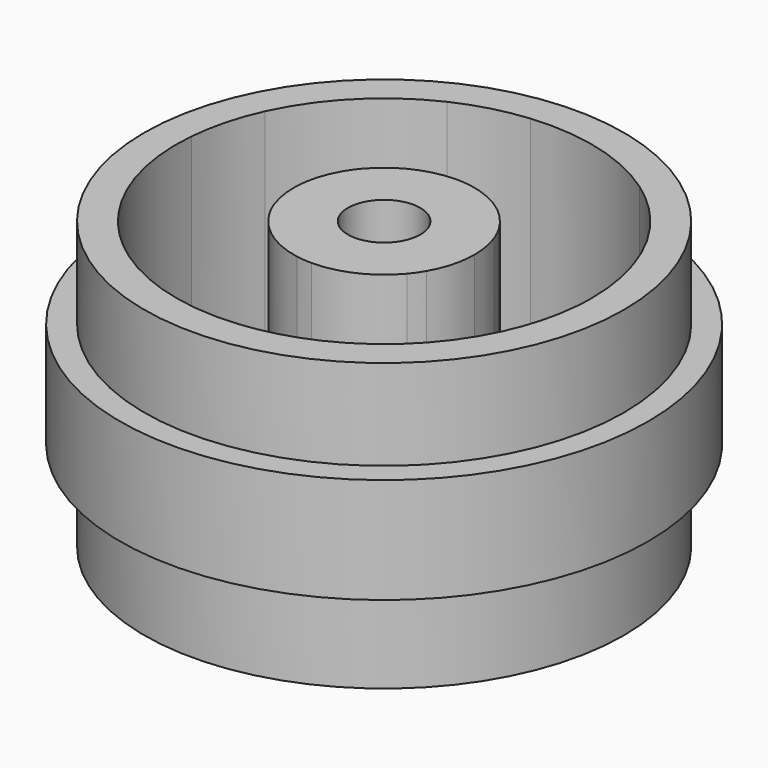
from build123d import *

# Parameters (mm, degrees)
F0_R     = 7.95
F1_DEPTH = 3
F2_R     = 8.75
F3_DEPTH = 3.5
F4_R     = 7.95
F5_DEPTH = 3
F7_DEPTH = 25
F6_R     = 1.2
F8_DEPTH = 7


with BuildPart() as f1:
    # F0 (on Top) → F1 (new body)
    with BuildSketch(Plane.XY):
        Circle(F0_R)
    extrude(amount=F1_DEPTH)

    # F2 (on face) → F3 (join)
    with BuildSketch(Plane.XY.offset(3)):
        Circle(F2_R)
    extrude(amount=F3_DEPTH)

    # F4 (on face) → F5 (join)
    with BuildSketch(Plane.XY.offset(6.5)):
        Circle(F4_R)
    extrude(amount=F5_DEPTH)

    # F6 (on face) → F7 (cut)
    with BuildSketch(Plane.XY.offset(9.5)):
        with BuildLine():
            ThreePointArc((-2.598076, 1.5), (-2.458255, 1.719588), (-2.299923, 1.926228))
            Line((-2.299923, 1.926228), (-2.915072, 6.243758))
            ThreePointArc((-2.915072, 6.243758), (-4.883769, 4.86117), (-6.257211, 2.886082))
            Line((-6.257211, 2.886082), (-2.598076, 1.5))
        make_face()
        with BuildLine():
            ThreePointArc((0, 3), (0.26008, 2.988705), (0.518201, 2.954906))
            Line((0.518201, 2.954906), (3.949717, 5.646406))
            ThreePointArc((3.949717, 5.646406), (1.768012, 6.660052), (-0.629185, 6.861945))
            Line((-0.629185, 6.861945), (0, 3))
        make_face()
        with BuildLine():
            ThreePointArc((2.598076, 1.5), (2.718334, 1.269117), (2.818124, 1.028678))
            Line((2.818124, 1.028678), (6.864789, -0.597352))
            ThreePointArc((6.864789, -0.597352), (6.884242, -0.298958), (6.89073, 0))
            ThreePointArc((6.89073, 0), (6.567472, 2.08578), (5.628026, 3.975863))
            Line((5.628026, 3.975863), (2.598076, 1.5))
        make_face()
        with BuildLine():
            Line((6.257211, -2.886082), (2.598076, -1.5))
            ThreePointArc((2.598076, -1.5), (2.458255, -1.719588), (2.299923, -1.926228))
            Line((2.299923, -1.926228), (2.915072, -6.243758))
            ThreePointArc((2.915072, -6.243758), (4.883769, -4.86117), (6.257211, -2.886082))
        make_face()
        with BuildLine():
            Line((0.629185, -6.861945), (0, -3))
            ThreePointArc((0, -3), (-0.26008, -2.988705), (-0.518201, -2.954906))
            Line((-0.518201, -2.954906), (-3.949717, -5.646406))
            ThreePointArc((-3.949717, -5.646406), (-1.768012, -6.660052), (0.629185, -6.861945))
        make_face()
        with BuildLine():
            Line((-5.628026, -3.975863), (-2.598076, -1.5))
            ThreePointArc((-2.598076, -1.5), (-2.718334, -1.269117), (-2.818124, -1.028678))
            Line((-2.818124, -1.028678), (-6.864789, 0.597352))
            ThreePointArc((-6.864789, 0.597352), (-6.651781, -1.798883), (-5.628026, -3.975863))
        make_face()
    extrude(amount=-F7_DEPTH, mode=Mode.SUBTRACT)

    # F6 (on face) → F8 (cut)
    with BuildSketch(Plane.XY.offset(9.5)):
        Circle(F6_R)
        with BuildLine():
            ThreePointArc((-2.818124, -1.028678), (-2.988705, 0.26008), (-2.598076, 1.5))
            Line((-2.598076, 1.5), (-6.257211, 2.886082))
            ThreePointArc((-6.257211, 2.886082), (-6.660052, 1.768012), (-6.864789, 0.597352))
            Line((-6.864789, 0.597352), (-2.818124, -1.028678))
        make_face()
        with BuildLine():
            ThreePointArc((-2.299923, 1.926228), (-1.269117, 2.718334), (0, 3))
            Line((0, 3), (-0.629185, 6.861945))
            ThreePointArc((-0.629185, 6.861945), (-1.798883, 6.651781), (-2.915072, 6.243758))
            Line((-2.915072, 6.243758), (-2.299923, 1.926228))
        make_face()
        with BuildLine():
            ThreePointArc((0.518201, 2.954906), (1.719588, 2.458255), (2.598076, 1.5))
            Line((2.598076, 1.5), (5.628026, 3.975863))
            ThreePointArc((5.628026, 3.975863), (4.86117, 4.883769), (3.949717, 5.646406))
            Line((3.949717, 5.646406), (0.518201, 2.954906))
        make_face()
        with BuildLine():
            ThreePointArc((2.818124, 1.028678), (2.954181, 0.522316), (3, 0))
            ThreePointArc((3, 0), (2.897777, -0.776457), (2.598076, -1.5))
            Line((2.598076, -1.5), (6.257211, -2.886082))
            ThreePointArc((6.257211, -2.886082), (6.660052, -1.768012), (6.864789, -0.597352))
            Line((6.864789, -0.597352), (2.818124, 1.028678))
        make_face()
        with BuildLine():
            Line((2.915072, -6.243758), (2.299923, -1.926228))
            ThreePointArc((2.299923, -1.926228), (1.269117, -2.718334), (0, -3))
            Line((0, -3), (0.629185, -6.861945))
            ThreePointArc((0.629185, -6.861945), (1.798883, -6.651781), (2.915072, -6.243758))
        make_face()
        with BuildLine():
            Line((-3.949717, -5.646406), (-0.518201, -2.954906))
            ThreePointArc((-0.518201, -2.954906), (-1.719588, -2.458255), (-2.598076, -1.5))
            Line((-2.598076, -1.5), (-5.628026, -3.975863))
            ThreePointArc((-5.628026, -3.975863), (-4.86117, -4.883769), (-3.949717, -5.646406))
        make_face()
    extrude(amount=-F8_DEPTH, mode=Mode.SUBTRACT)


solid = f1.part
